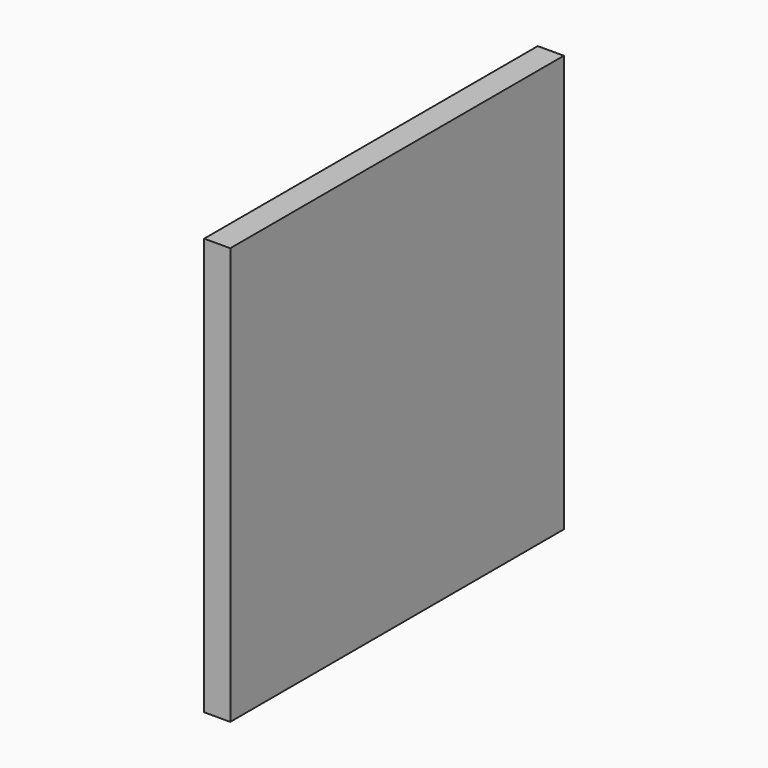
from build123d import *

# Parameters (mm, degrees)
F0_W     = 15.24
F0_H     = 243.84
F1_DEPTH = 0.254
F2_W     = 15.24
F2_H     = 0.254
F3_DEPTH = 243.332
F4_W     = 15.249304
F4_H     = 243.84
F5_DEPTH = 0.254
F6_W     = 2.54
F6_H     = 243.332
F7_DEPTH = 243.332


with BuildPart() as f1:
    # F0 (on Front) → F1 (new body)
    with BuildSketch(Plane.XZ):
        with Locations((7.62, -121.92)):
            Rectangle(F0_W, F0_H)
    extrude(amount=F1_DEPTH)

    # F2 (on face) → F3 (join)
    with BuildSketch(Plane.XZ.offset(0.254)):
        with Locations((7.62, -0.127)):
            Rectangle(F2_W, F2_H)
        with Locations((7.62, -243.713)):
            Rectangle(F2_W, F2_H)
    extrude(amount=F3_DEPTH)

    # F4 (on face) → F5 (join)
    with BuildSketch(Plane.XZ.offset(243.586)):
        with Locations((7.624652, -121.92)):
            Rectangle(F4_W, F4_H)
    extrude(amount=F5_DEPTH)

    # F6 (on face) → F7 (join)
    with BuildSketch(Plane.XY.offset(-243.586)):
        with Locations((13.97, -121.92)):
            Rectangle(F6_W, F6_H)
        with Locations((7.62, -121.92)):
            Rectangle(F6_W, F6_H)
        with Locations((1.27, -121.92)):
            Rectangle(F6_W, F6_H)
    extrude(amount=F7_DEPTH)


solid = f1.part
